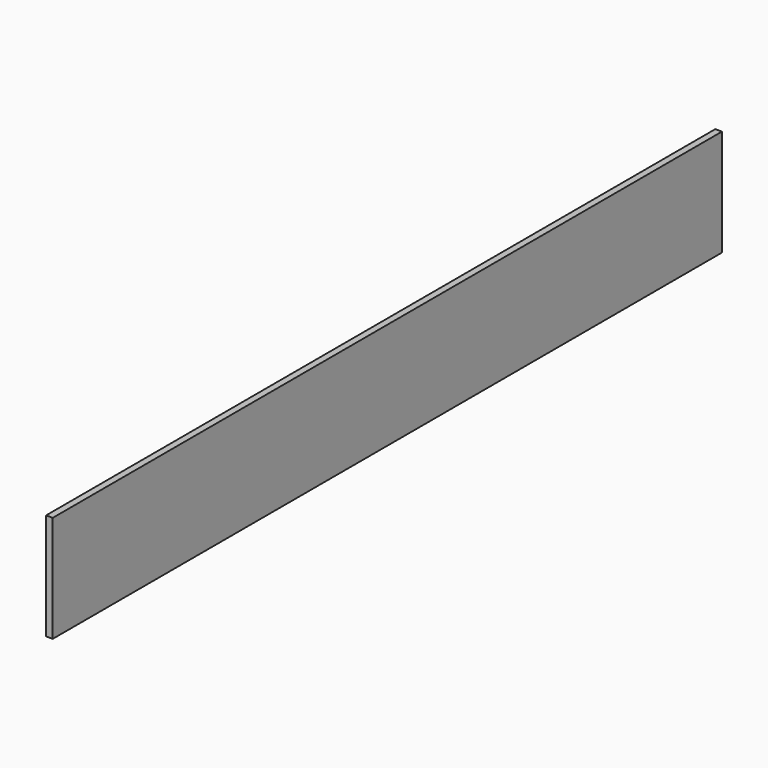
from build123d import *

# Parameters (mm, degrees)
F0_W      = 2088.261
F0_H      = 304.8
F1_DEPTH  = 19.05
F1_FACE_W = 19.05
F1_FACE_H = 304.8
F2_DEPTH  = 304.8


with BuildPart() as f1:
    # F0 (on Right) → F1 (new body)
    with BuildSketch(Plane.YZ):
        Rectangle(F0_W, F0_H)
    extrude(amount=F1_DEPTH)

    # F1_face (on face) → F2 (join)
    with BuildSketch(Plane(origin=(9.525, -1044.1305, 0), x_dir=(1, 0, 0), z_dir=(0, -1, 0))):
        Rectangle(F1_FACE_W, F1_FACE_H)
    extrude(amount=F2_DEPTH)


solid = f1.part
